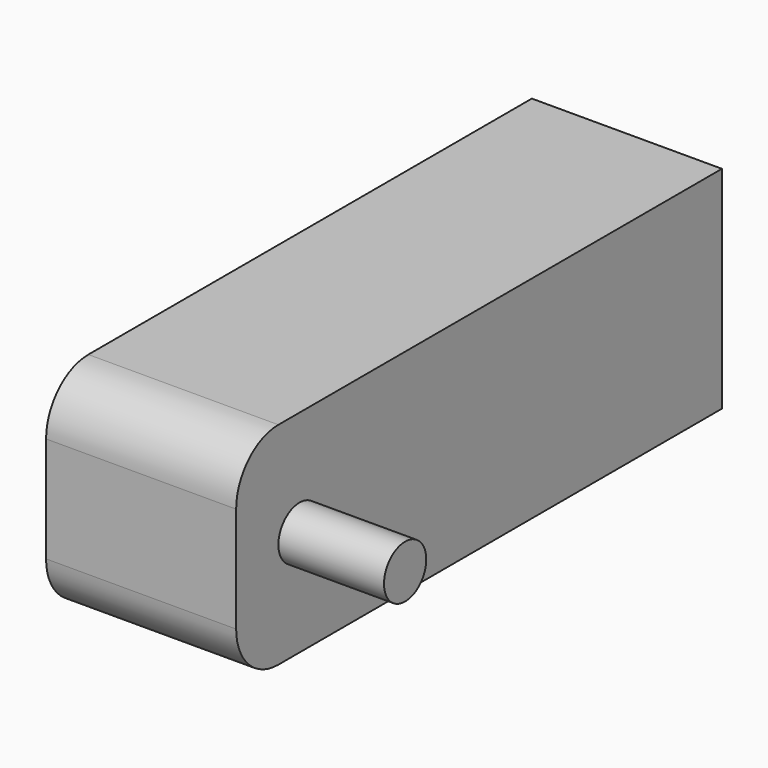
from build123d import *

# Parameters (mm, degrees)
F0_W     = 57.5
F0_H     = 20
F0_R     = 2.5
F1_DEPTH = 9
F2_R     = 5
F3_R     = 2.5
F4_DEPTH = 10
F5_R     = 1.5
F5_R_2   = 1.631437
F6_DEPTH = 10


with BuildPart() as f1:
    # F0 (on Right) → F1 (new body, symmetric)
    with BuildSketch(Plane.YZ):
        with Locations((21.25, 0)):
            Rectangle(F0_W, F0_H)
        Circle(F0_R, mode=Mode.SUBTRACT)
        Circle(F0_R)
    extrude(amount=F1_DEPTH, both=True)

    # F2
    f2_edges = [f1.edges().sort_by_distance(p)[0] for p in [
        (0, -7.5, 10),
        (0, -7.5, -10),
    ]]
    fillet(f2_edges, radius=F2_R)

    # F3 (on face) → F4 (join)
    with BuildSketch(Plane.YZ.offset(9)):
        Circle(F3_R)
    extrude(amount=F4_DEPTH)

    # F5 (on face) → F6 (cut)
    with BuildSketch(Plane(origin=(-9, 0, 0), x_dir=(0, -1, 0), z_dir=(-1, 0, 0))):
        with Locations((-15, 6.5)):
            Circle(F5_R)
        with Locations((-15, -6.5)):
            Circle(F5_R_2)
    extrude(amount=-F6_DEPTH, mode=Mode.SUBTRACT)


solid = f1.part
